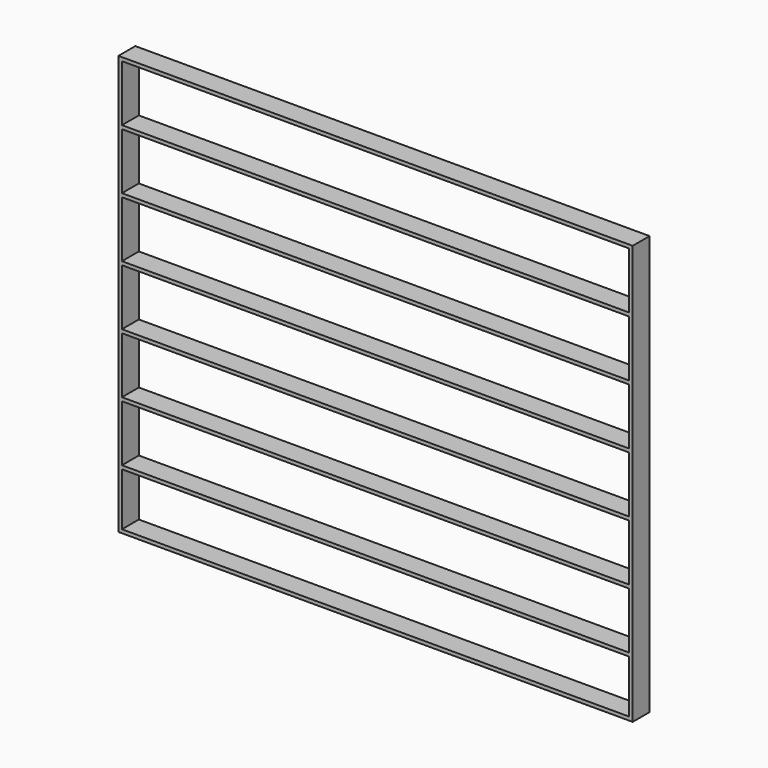
from build123d import *

# Parameters (mm, degrees)
F0_W     = 6.35
F0_H     = 38.1
F1_DEPTH = 755.65
F2_W     = 38.1
F2_H     = 6.35
F3_DEPTH = 457.2


with BuildPart() as f1:
    # F0 (on Top) → F1 (new body)
    with BuildSketch(Plane.XY):
        Rectangle(F0_W, F0_H)
    extrude(amount=F1_DEPTH)

    # F2 (on face) → F3 (join)
    with BuildSketch(Plane.YZ.offset(3.175)):
        with Locations((0, 104.775)):
            Rectangle(F2_W, F2_H)
        with Locations((0, 3.175)):
            Rectangle(F2_W, F2_H)
        with Locations((0, 212.725)):
            Rectangle(F2_W, F2_H)
        with Locations((0, 320.675)):
            Rectangle(F2_W, F2_H)
        with Locations((0, 428.625)):
            Rectangle(F2_W, F2_H)
        with Locations((0, 536.575)):
            Rectangle(F2_W, F2_H)
        with Locations((0, 644.525)):
            Rectangle(F2_W, F2_H)
        with Locations((0, 752.475)):
            Rectangle(F2_W, F2_H)
    extrude(amount=F3_DEPTH)

    # F4: F1 across face


with BuildPart() as f1_1:
    add(f1.part)
    add(f1.part.mirror(Plane(origin=(460.375, 0, 644.525), x_dir=(0, 1, 0), z_dir=(1, 0, 0))))


solid = f1_1.part
